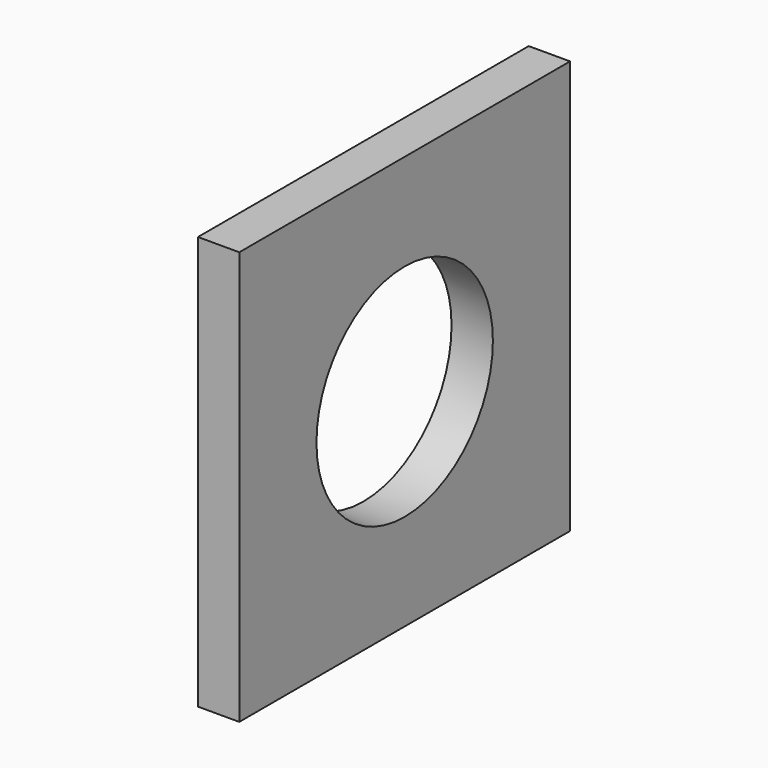
from build123d import *

# Parameters (mm, degrees)
F0_W     = 300
F0_H     = 300
F0_R     = 80
F1_DEPTH = 30


with BuildPart() as f1:
    # F0 (on Right) → F1 (new body)
    with BuildSketch(Plane.YZ):
        Rectangle(F0_W, F0_H)
        Circle(F0_R, mode=Mode.SUBTRACT)
    extrude(amount=F1_DEPTH)


solid = f1.part
